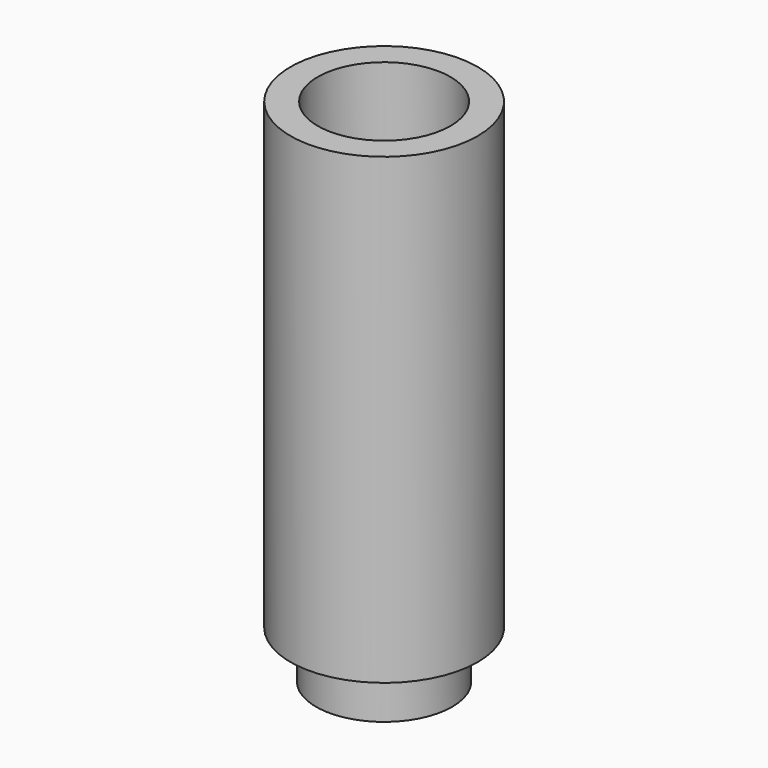
from build123d import *

# Parameters (mm, degrees)
F0_R     = 6.875
F0_R_2   = 2.9
F1_DEPTH = 34
F2_R     = 5
F2_R_2   = 2.9
F3_DEPTH = 3.5
F4_R     = 4.875
F5_DEPTH = 7


with BuildPart() as f1:
    # F0 (on Top) → F1 (new body)
    with BuildSketch(Plane.XY):
        Circle(F0_R)
        Circle(F0_R_2, mode=Mode.SUBTRACT)
    extrude(amount=F1_DEPTH)

    # F2 (on face) → F3 (join)
    with BuildSketch(Plane(origin=(0, 0, 0), x_dir=(1, 0, 0), z_dir=(0, 0, -1))):
        Circle(F2_R)
        Circle(F2_R_2, mode=Mode.SUBTRACT)
    extrude(amount=F3_DEPTH)

    # F4 (on face) → F5 (cut)
    with BuildSketch(Plane.XY.offset(34)):
        Circle(F4_R)
    extrude(amount=-F5_DEPTH, mode=Mode.SUBTRACT)


solid = f1.part
